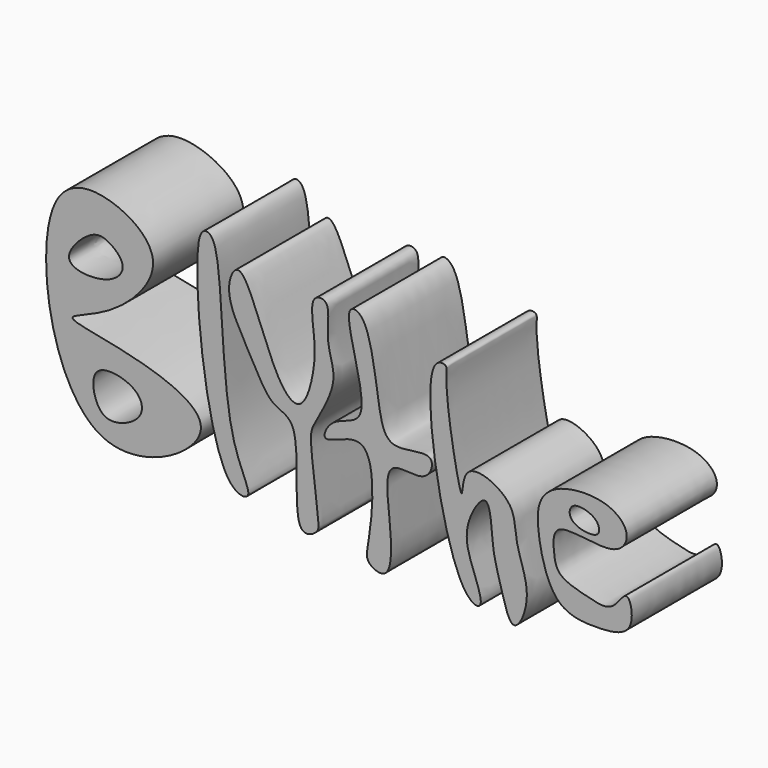
from build123d import *

# Parameters (mm, degrees)
F1_DEPTH = 25


with BuildPart() as f1:
    # F0 (on Front) → F1 (new body)
    with BuildSketch(Plane.XZ):
        with BuildLine():
            add(Edge.make_bspline(
                [(-67.7193030715, 38.559038192), (-72.538547843, 28.6760494012), (-66.0098131044, -18.0479919016), (-23.921171999, 6.4722233664), (-52.9193034607, 15.1931756734), (-68.0860880131, 17.035778352), (-54.640171136, 20.3288280823), (-41.4244457176, 34.1709669885), (-54.6356016971, 44.4743880751), (-65.049921272, 44.0332300321), (-67.7193030715, 38.559038192)],
                knots=[0, 0, 0, 0, 0.1978646548, 0.3424969967, 0.4783125727, 0.5761818105, 0.6640501005, 0.7848537102, 0.8904026806, 1, 1, 1, 1], degree=3))
        make_face()
        with BuildLine():
            add(Edge.make_bspline(
                [(-58.3205409348, 8.6757838726), (-59.8512509609, 7.3059056911), (-58.9400499034, 1.4941518546), (-54.8784144219, -0.9458460138), (-47.5864669487, 2.4852098214), (-49.0313494111, 8.8064942207), (-56.5969157953, 10.2183075586), (-58.3205409348, 8.6757838726)],
                knots=[0, 0, 0, 0, 0.2087937551, 0.3768543184, 0.5867844057, 0.764892005, 1, 1, 1, 1], degree=3))
        make_face(mode=Mode.SUBTRACT)
        with BuildLine():
            add(Edge.make_bspline(
                [(-60.0075013936, 34.7031354904), (-62.216025156, 33.4780972471), (-68.3304422003, 26.880118246), (-55.7474208312, 26.0295302199), (-51.2905905209, 31.0640050653), (-55.9418388416, 35.2260518229), (-58.4028455343, 35.5932163799), (-60.0075013936, 34.7031354904)],
                knots=[0, 0, 0, 0, 0.2288337427, 0.4652284855, 0.654076166, 0.833735361, 1, 1, 1, 1], degree=3))
        make_face(mode=Mode.SUBTRACT)
    extrude(amount=F1_DEPTH)


with BuildPart() as f1b:
    # F0 (on Front) → F1, piece 2 (new body)
    with BuildSketch(Plane.XZ):
        with BuildLine():
            add(Edge.make_bspline(
                [(-35.9081029892, 41.2099696696), (-37.2486921426, 33.3387753559), (-33.5591062088, -5.0076272083), (-22.6515578665, -5.7604156089), (-31.2444091853, 5.5003341809), (-30.3432791651, 41.0623305057), (-34.2682485046, 44.4696267187), (-35.5532785645, 43.2933014547), (-35.9081029892, 41.2099696696)],
                knots=[0, 0, 0, 0, 0.3097967611, 0.4071637313, 0.5577344005, 0.8367405229, 0.9180036201, 1, 1, 1, 1], degree=3))
        make_face()
    extrude(amount=F1_DEPTH)


with BuildPart() as f1c:
    # F0 (on Front) → F1, piece 3 (new body)
    with BuildSketch(Plane.XZ):
        with BuildLine():
            add(Edge.make_bspline(
                [(-26.9913263619, 38.559038192), (-24.6274576866, 37.9096425008), (-19.686295204, 20.0200320519), (-12.92168596, 14.6583697481), (-10.1084989781, 24.2731238881), (-10.0483802603, 30.8635405552), (-11.5183118134, 39.2423127242), (-6.2763955315, 39.2519301922), (-8.184603795, 30.8893595922), (-4.4912266534, 24.3689295068), (-9.3790315424, 15.7104933004), (-11.1463971768, 12.5389706675), (-10.9599740368, 8.2009215388), (-9.3503890669, -4.0011627736), (-9.1281662843, -7.0560249385), (-15.9117893337, -10.1325998517), (-12.3439517524, 13.6157310705), (-19.5240015288, 14.1972481506), (-22.8150998066, 19.7209639191), (-26.5073201457, 26.4384735115), (-30.3503754137, 33.8116760572), (-28.1078078754, 38.8657550125), (-26.9913263619, 38.559038192)],
                knots=[0, 0, 0, 0, 0.0840498118, 0.1309401614, 0.1820782494, 0.2353153184, 0.2852250893, 0.3145244085, 0.3644785764, 0.4163976223, 0.4732837037, 0.5083424185, 0.5476515745, 0.6140465228, 0.6463629199, 0.6799652156, 0.7625269424, 0.8060072836, 0.851593328, 0.9049156606, 0.9603023374, 1, 1, 1, 1], degree=3))
        make_face()
    extrude(amount=F1_DEPTH)


with BuildPart() as f1d:
    # F0 (on Front) → F1, piece 4 (new body)
    with BuildSketch(Plane.XZ):
        with BuildLine():
            add(Edge.make_bspline(
                [(-2.409939887, 38.559038192), (-3.4867491385, 35.6558107605), (4.3257093527, 16.5083386386), (-6.3341947694, 17.3755599444), (-9.7318980035, 9.4241693005), (4.0527892106, 18.9873130613), (2.3054964012, -4.3528042172), (0.6570677382, -9.1913167623), (7.0703442143, -11.8210892788), (6.8619219021, 0.0769413552), (4.5276979283, 13.7925721344), (14.8759222721, 9.6944355006), (17.1692189662, 17.9329294198), (5.9908920175, 13.6022066014), (3.759316107, 22.3948311782), (2.0580175764, 39.226389126), (-2.0283478301, 39.5878634234), (-2.409939887, 38.559038192)],
                knots=[0, 0, 0, 0, 0.1029014167, 0.165725458, 0.2126413006, 0.2784386412, 0.3765863903, 0.430673433, 0.4746747611, 0.5496701385, 0.6279629011, 0.6902268443, 0.7374395104, 0.8026709336, 0.8676621613, 0.9635345227, 1, 1, 1, 1], degree=3))
        make_face()
    extrude(amount=F1_DEPTH)


with BuildPart() as f1e:
    # F0 (on Front) → F1, piece 5 (new body)
    with BuildSketch(Plane.XZ):
        with BuildLine():
            add(Edge.make_bspline(
                [(16.3875911385, 33.9801497757), (13.4654499332, 28.5659180237), (19.4606555051, -8.3033615084), (27.9873036334, -10.7186908787), (24.7290901033, -2.3898557239), (22.2711777496, 4.6677028523), (28.8428981467, 15.2604075589), (29.1240597067, 1.8322532483), (30.9255899849, -2.9180219639), (33.596017274, -14.3621158685), (38.5555650489, -3.781844173), (33.7949559633, 5.3106183742), (34.8176624185, 13.5223174912), (22.2609172637, 18.9431611709), (23.0872176541, 4.0943944388), (18.088173218, 31.9716406907), (19.6727893213, 35.2166431089), (17.116450963, 35.3306033396), (16.3875911385, 33.9801497757)],
                knots=[0, 0, 0, 0, 0.1379899055, 0.1818536631, 0.2360282511, 0.2992550701, 0.3555807495, 0.4173713472, 0.4755806231, 0.5334651626, 0.5886929021, 0.6582057338, 0.7177915024, 0.7821369995, 0.828950736, 0.9262907148, 0.9655816433, 1, 1, 1, 1], degree=3))
        make_face()
    extrude(amount=F1_DEPTH)


with BuildPart() as f1f:
    # F0 (on Front) → F1, piece 6 (new body)
    with BuildSketch(Plane.XZ):
        with BuildLine():
            add(Edge.make_bspline(
                [(44.1018976271, 11.0857225955), (46.3929030265, 12.2919938487), (56.4574867254, 8.9679520492), (60.4068812314, 15.2306208475), (54.8936046519, 20.6135231648), (43.8137163622, 19.9841759509), (39.2898763508, 15.5926195025), (39.0982567565, 8.8847031741), (42.3149387767, -4.7924325456), (52.1741991698, -5.5977312065), (61.4289554129, -4.6542742845), (59.3816169825, 5.5838408655), (56.0939660342, -1.5318695148), (50.3805384087, 0.0289780628), (43.5941072287, 1.6823393283), (42.8048590281, 6.2966082925), (42.651206677, 10.3218977738), (44.1018976271, 11.0857225955)],
                knots=[0, 0, 0, 0, 0.0876528992, 0.1445074793, 0.2076849085, 0.2907561497, 0.3503784991, 0.4155329704, 0.5060040736, 0.5825442636, 0.6533265688, 0.7136330269, 0.766301933, 0.8263545709, 0.891330552, 0.9444971768, 1, 1, 1, 1], degree=3))
        make_face()
        with BuildLine():
            add(Edge.make_bspline(
                [(46.9565242529, 13.7934787199), (48.1333435713, 12.5402785181), (53.2892295221, 11.7593387997), (52.9258963576, 15.3764913423), (50.2532864986, 16.9533898139), (46.4592259538, 17.279450353), (46.1308918181, 14.6726984248), (46.9565242529, 13.7934787199)],
                knots=[0, 0, 0, 0, 0.2617059475, 0.4247918809, 0.6199163896, 0.8163924442, 1, 1, 1, 1], degree=3))
        make_face(mode=Mode.SUBTRACT)
    extrude(amount=F1_DEPTH)


solid = Compound([f1.part, f1b.part, f1c.part, f1d.part, f1e.part, f1f.part])
